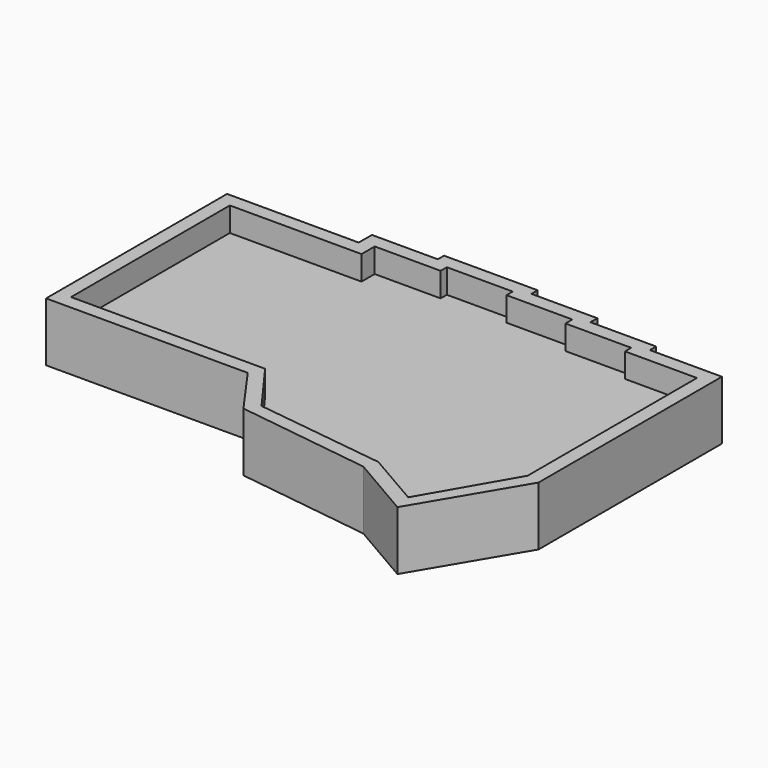
from build123d import *

# Parameters (mm, degrees)
PAD_DEPTH       = 1.4
PAD002_DEPTH    = 17
POCKET_DEPTH    = 7
POCKET001_DEPTH = 7


with BuildPart() as pcb:
    # MirroredSketch017 → Pad (new body)
    with BuildSketch(Plane.XY):
        Polygon((0, 56.25), (0, 0), (55.73, 0), (66.458602, -14.707193), (103.962755, -19.584789), (119.629911, -28.648464), (133.73, -4.157341), (133.73, 56.252659), (112.98, 56.252659), (112.98, 58.502659), (93.99, 58.502659), (93.99, 61.002659), (74.99, 61.002659), (74.99, 63.252659), (56.99, 63.252659), (56.99, 61.002659), (37.98, 61.002659), (37.98, 56.25), align=None)
    extrude(amount=PAD_DEPTH)


with BuildPart() as body:
    # Sketch007 → Pad002 (new body)
    with BuildSketch(Plane.XY):
        Polygon((-4.5, 60.75), (-4.5, -4.5), (53.666937, -4.5), (63.764495, -18.67718), (102.559627, -23.936278), (120.9071, -34.593338), (138.23, -5.360167), (138.23, 60.752659), (117.48, 60.752659), (117.48, 63.002659), (98.49, 63.002659), (98.49, 65.502659), (79.49, 65.502659), (79.49, 67.752659), (52.49, 67.752659), (52.49, 65.502659), (33.48, 65.502659), (33.48, 60.75), align=None)
    extrude(amount=PAD002_DEPTH)

    # Sketch006 → Pocket (cut)
    with BuildSketch(Plane.XY.offset(17)):
        Polygon((-0.5, 56.75), (-0.5, -0.5), (55.475842, -0.5), (66.181197, -15.175326), (103.799015, -20.067704), (119.813235, -29.332161), (134.23, -4.290989), (134.23, 56.752659), (113.48, 56.752659), (113.48, 59.002659), (94.49, 59.002659), (94.49, 61.502659), (75.49, 61.502659), (75.49, 63.752659), (56.49, 63.752659), (56.49, 61.502659), (37.48, 61.502659), (37.48, 56.75), align=None)
    extrude(amount=-POCKET_DEPTH, mode=Mode.SUBTRACT)

    # Sketch008 → Pocket001 (cut)
    with BuildSketch(Plane.XY):
        Polygon((-0.5, 56.75), (-0.5, -0.5), (55.475842, -0.5), (66.181197, -15.175326), (103.799015, -20.067704), (119.813235, -29.332161), (134.23, -4.290989), (134.23, 56.752659), (113.48, 56.752659), (113.48, 59.002659), (94.49, 59.002659), (94.49, 61.502659), (75.49, 61.502659), (75.49, 63.752659), (56.49, 63.752659), (56.49, 61.502659), (37.48, 61.502659), (37.48, 56.75), align=None)
    extrude(amount=POCKET001_DEPTH, mode=Mode.SUBTRACT)


solid = Compound([pcb.part, body.part])
